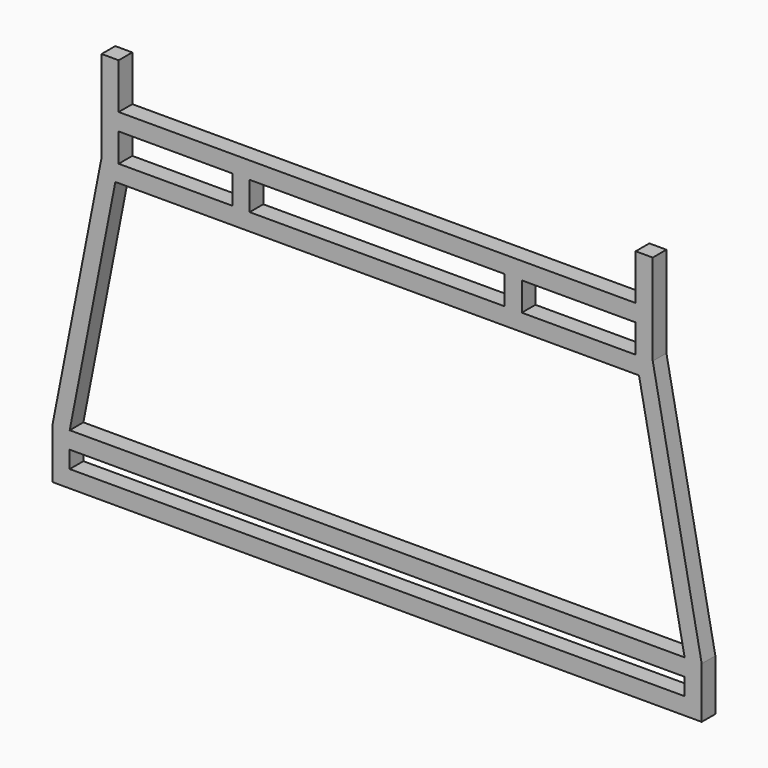
from build123d import *

# Parameters (mm, degrees)
F0_W     = 1371.6
F0_H     = 38.1
F1_DEPTH = 38.1
F0_W_2   = 38.1
F0_H_2   = 63.5
F2_DEPTH = 38.1


with BuildPart() as f1:
    # F0 (on Front) → F1 (new body)
    with BuildSketch(Plane.XZ):
        Polygon((-723.9, 76.2), (-723.9, 0), (-685.8, 0), (-685.8, 38.1), (-685.8, 76.2), (-584.037135, 596.9), (-576.591072, 635), (-576.591072, 698.5), (-576.591072, 736.6), (-576.591072, 838.2), (-614.691072, 838.2), (-614.691072, 635), align=None)
        Polygon((-576.591072, 635), (-584.037135, 596.9), (584.037135, 596.9), (576.591072, 635), (322.591072, 635), (284.491072, 635), (-284.491072, 635), (-322.591072, 635), align=None)
        Polygon((576.591072, 736.6), (-576.591072, 736.6), (-576.591072, 698.5), (-322.591072, 698.5), (-284.491072, 698.5), (284.491072, 698.5), (322.591072, 698.5), (576.591072, 698.5), align=None)
        Polygon((685.8, 38.1), (685.8, 0), (723.9, 0), (723.9, 76.2), (614.691072, 635), (614.691072, 838.2), (576.591072, 838.2), (576.591072, 736.6), (576.591072, 698.5), (576.591072, 635), (584.037135, 596.9), (685.8, 76.2), align=None)
        with Locations((0, 57.15)):
            Rectangle(F0_W, F0_H)
        Polygon((-685.8, 0), (-723.9, 0), (-723.9, -38.1), (723.9, -38.1), (723.9, 0), (685.8, 0), align=None)
    extrude(amount=F1_DEPTH)

    # F0 (on Front) → F2 (join)
    with BuildSketch(Plane.XZ):
        Polygon((-723.9, 76.2), (-723.9, 0), (-685.8, 0), (-685.8, 38.1), (-685.8, 76.2), (-584.037135, 596.9), (-576.591072, 635), (-576.591072, 698.5), (-576.591072, 736.6), (-576.591072, 838.2), (-614.691072, 838.2), (-614.691072, 635), align=None)
        Polygon((685.8, 38.1), (685.8, 0), (723.9, 0), (723.9, 76.2), (614.691072, 635), (614.691072, 838.2), (576.591072, 838.2), (576.591072, 736.6), (576.591072, 698.5), (576.591072, 635), (584.037135, 596.9), (685.8, 76.2), align=None)
        Polygon((-685.8, 0), (-723.9, 0), (-723.9, -38.1), (723.9, -38.1), (723.9, 0), (685.8, 0), align=None)
        Polygon((576.591072, 736.6), (-576.591072, 736.6), (-576.591072, 698.5), (-322.591072, 698.5), (-284.491072, 698.5), (284.491072, 698.5), (322.591072, 698.5), (576.591072, 698.5), align=None)
        with Locations((-303.541072, 666.75)):
            Rectangle(F0_W_2, F0_H_2)
        with Locations((303.541072, 666.75)):
            Rectangle(F0_W_2, F0_H_2)
    extrude(amount=F2_DEPTH)


solid = f1.part
